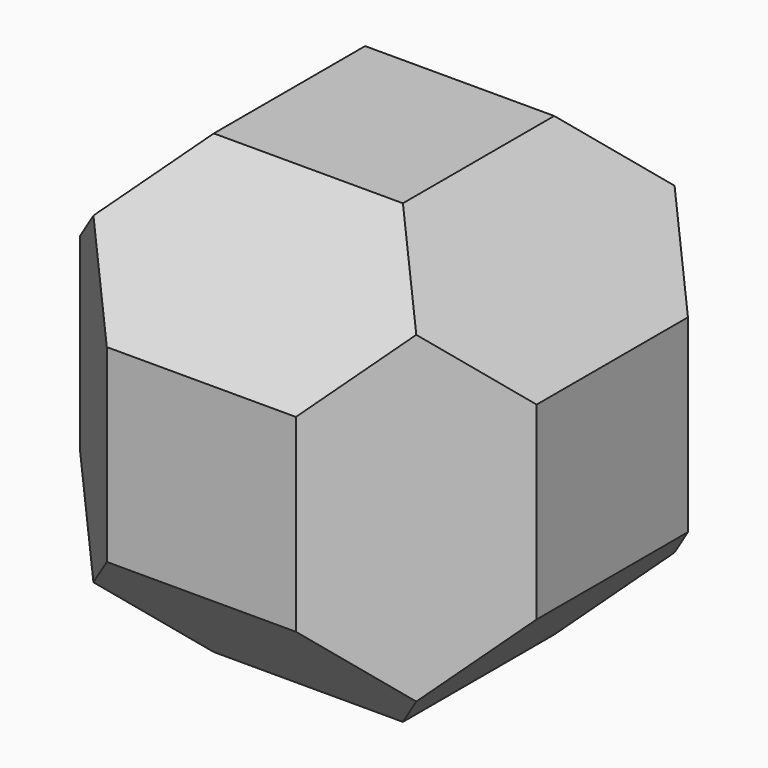
from build123d import *

# Parameters (mm, degrees)
F3_DEPTH = 30
F4_DEPTH = 30
F5_DEPTH = 30


with BuildPart() as f3:
    # F0 (on Front) → F3 (new body, symmetric)
    with BuildSketch(Plane.XZ):
        Polygon((-30, 12.426407), (-30, -12.426407), (-12.426407, -30), (12.426407, -30), (30, -12.426407), (30, 12.426407), (12.426407, 30), (-12.426407, 30), align=None)
    extrude(amount=F3_DEPTH, both=True)

    # F1 (on Top) → F4 (intersect, symmetric)
    with BuildSketch(Plane.XY):
        Polygon((30, -12.426407), (30, 12.426407), (12.426407, 30), (-12.426407, 30), (-30, 12.426407), (-30, -12.426407), (-12.426407, -30), (12.426407, -30), align=None)
    extrude(amount=F4_DEPTH, both=True, mode=Mode.INTERSECT)

    # F2 (on Right) → F5 (intersect, symmetric)
    with BuildSketch(Plane.YZ):
        Polygon((12.426407, 30), (-12.426407, 30), (-30, 12.426407), (-30, -12.426407), (-12.426407, -30), (12.426407, -30), (30, -12.426407), (30, 12.426407), align=None)
    extrude(amount=F5_DEPTH, both=True, mode=Mode.INTERSECT)


solid = f3.part
